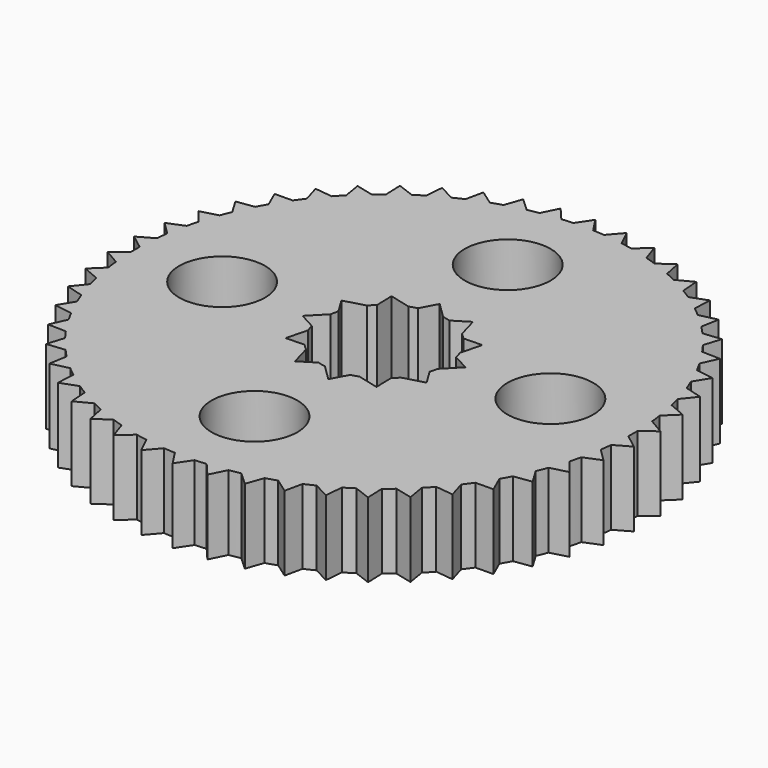
from build123d import *

# Parameters (mm, degrees)
F0_R     = 8.619156
F1_DEPTH = 7.5


with BuildPart() as f1:
    # F0 (on Top) → F1 (new body, symmetric)
    with BuildSketch(Plane.XY):
        with BuildLine():
            Line((0.045646, 52.980775), (-1.974219, 49.961009))
            ThreePointArc((-1.974219, 49.961009), (-3.117219, 49.902735), (-4.258587, 49.818314))
            Line((-4.258587, 49.818314), (-6.594966, 52.568727))
            Line((-6.594966, 52.568727), (-8.220427, 49.319617))
            ThreePointArc((-8.220427, 49.319617), (-9.34711, 49.118546), (-10.468897, 48.89174))
            Line((-10.468897, 48.89174), (-13.131571, 51.327639))
            Line((-13.131571, 51.327639), (-14.336993, 47.900424))
            ThreePointArc((-14.336993, 47.900424), (-15.429592, 47.559728), (-16.514106, 47.194113))
            Line((-16.514106, 47.194113), (-19.461084, 49.277083))
            Line((-19.461084, 49.277083), (-20.227457, 45.725813))
            ThreePointArc((-20.227457, 45.725813), (-21.268739, 45.250864), (-22.298878, 44.752207))
            Line((-22.298878, 44.752207), (-25.483683, 46.449397))
            Line((-25.483683, 46.449397), (-25.798921, 42.830079))
            ThreePointArc((-25.798921, 42.830079), (-26.772466, 42.228368), (-27.731984, 41.604532))
            Line((-27.731984, 41.604532), (-31.10439, 42.889178))
            Line((-31.10439, 42.889178), (-30.963521, 39.258889))
            ThreePointArc((-30.963521, 39.258889), (-31.853975, 38.539905), (-32.727739, 37.800729))
            Line((-32.727739, 37.800729), (-36.234562, 38.65257))
            Line((-36.234562, 38.65257), (-35.639808, 35.068562))
            ThreePointArc((-35.639808, 35.068562), (-36.433128, 34.243645), (-37.207359, 33.400785))
            Line((-37.207359, 33.400785), (-40.793293, 33.806388))
            Line((-40.793293, 33.806388), (-39.754034, 30.325184))
            ThreePointArc((-39.754034, 30.325184), (-40.437708, 29.407341), (-41.100196, 28.474091))
            Line((-41.100196, 28.474091), (-44.70869, 28.427059))
            Line((-44.70869, 28.427059), (-43.241315, 25.103559))
            ThreePointArc((-43.241315, 25.103559), (-43.804562, 24.107267), (-44.344859, 23.098344))
            Line((-44.344859, 23.098344), (-47.919004, 22.599419))
            Line((-47.919004, 22.599419), (-46.046654, 19.486036))
            ThreePointArc((-46.046654, 19.486036), (-46.480592, 18.427007), (-46.890176, 17.358322))
            Line((-46.890176, 17.358322), (-50.373606, 16.415372))
            Line((-50.373606, 16.415372), (-48.125811, 13.561207))
            ThreePointArc((-48.125811, 13.561207), (-48.423595, 12.456141), (-48.696008, 11.344549))
            Line((-48.696008, 11.344549), (-52.033787, 9.972445))
            Line((-52.033787, 9.972445), (-49.445994, 7.422509))
            ThreePointArc((-49.445994, 7.422509), (-49.602929, 6.288835), (-49.733875, 5.151866))
            Line((-49.733875, 5.151866), (-52.873364, 3.372246))
            Line((-52.873364, 3.372246), (-49.986385, 1.166754))
            ThreePointArc((-49.986385, 1.166754), (-49.999995, 0.02235), (-49.987408, -1.122065))
            Line((-49.987408, -1.122065), (-52.879096, -3.281135))
            Line((-52.879096, -3.281135), (-49.738461, -5.107401))
            ThreePointArc((-49.738461, -5.107401), (-49.608531, -6.244487), (-49.45261, -7.378301))
            Line((-49.45261, -7.378301), (-52.050893, -9.88277))
            Line((-52.050893, -9.88277), (-48.706131, -11.30101))
            ThreePointArc((-48.706131, -11.30101), (-48.434712, -12.412845), (-48.137915, -13.518177))
            Line((-48.137915, -13.518177), (-50.401817, -16.328548))
            Line((-50.401817, -16.328548), (-46.905676, -17.316395))
            ThreePointArc((-46.905676, -17.316395), (-46.497047, -18.385445), (-46.064057, -19.444862))
            Line((-46.064057, -19.444862), (-47.957874, -22.516815))
            Line((-47.957874, -22.516815), (-44.365491, -23.05869))
            ThreePointArc((-44.365491, -23.05869), (-43.826097, -24.068096), (-43.263741, -25.064891))
            Line((-43.263741, -25.064891), (-44.757606, -28.349979))
            Line((-44.757606, -28.349979), (-41.125636, -28.437336))
            ThreePointArc((-41.125636, -28.437336), (-40.463983, -29.371178), (-39.781129, -30.289631))
            Line((-39.781129, -30.289631), (-40.851485, -33.736046))
            Line((-40.851485, -33.736046), (-37.237205, -33.367508))
            ThreePointArc((-37.237205, -33.367508), (-36.463728, -34.211059), (-35.671146, -35.036686))
            Line((-35.671146, -35.036686), (-36.301111, -38.590076))
            Line((-36.301111, -38.590076), (-32.761521, -37.771454))
            ThreePointArc((-32.761521, -37.771454), (-31.888418, -38.511412), (-30.998607, -39.231191))
            Line((-30.998607, -39.231191), (-31.178247, -42.835518))
            Line((-31.178247, -42.835518), (-27.769168, -41.579723))
            ThreePointArc((-27.769168, -41.579723), (-26.810208, -42.204416), (-25.837202, -42.806997))
            Line((-25.837202, -42.806997), (-25.563683, -46.405417))
            Line((-25.563683, -46.405417), (-22.338878, -44.732254))
            ThreePointArc((-22.338878, -44.732254), (-21.309186, -45.231832), (-20.268328, -45.707711))
            Line((-20.268328, -45.707711), (-19.545965, -49.243476))
            Line((-19.545965, -49.243476), (-16.556292, -47.17933))
            ThreePointArc((-16.556292, -47.17933), (-15.472105, -47.545914), (-14.379811, -47.887587))
            Line((-14.379811, -47.887587), (-13.219995, -51.304935))
            Line((-13.219995, -51.304935), (-10.512602, -48.882361))
            ThreePointArc((-10.512602, -48.882361), (-9.391019, -49.11017), (-8.264516, -49.312248))
            Line((-8.264516, -49.312248), (-6.685538, -52.557285))
            Line((-6.685538, -52.557285), (-4.303123, -49.814487))
            ThreePointArc((-4.303123, -49.814487), (-3.161832, -49.899928), (-2.018884, -49.959224))
            Line((-2.018884, -49.959224), (-0.045646, -52.980775))
            Line((-0.045646, -52.980775), (1.974219, -49.961009))
            ThreePointArc((1.974219, -49.961009), (3.117219, -49.902735), (4.258587, -49.818314))
            Line((4.258587, -49.818314), (6.594966, -52.568727))
            Line((6.594966, -52.568727), (8.220427, -49.319617))
            ThreePointArc((8.220427, -49.319617), (9.34711, -49.118546), (10.468897, -48.89174))
            Line((10.468897, -48.89174), (13.131571, -51.327639))
            Line((13.131571, -51.327639), (14.336993, -47.900424))
            ThreePointArc((14.336993, -47.900424), (15.429592, -47.559728), (16.514106, -47.194113))
            Line((16.514106, -47.194113), (19.461084, -49.277083))
            Line((19.461084, -49.277083), (20.227457, -45.725813))
            ThreePointArc((20.227457, -45.725813), (21.268739, -45.250864), (22.298878, -44.752207))
            Line((22.298878, -44.752207), (25.483683, -46.449397))
            Line((25.483683, -46.449397), (25.798921, -42.830079))
            ThreePointArc((25.798921, -42.830079), (26.772466, -42.228368), (27.731984, -41.604532))
            Line((27.731984, -41.604532), (31.10439, -42.889178))
            Line((31.10439, -42.889178), (30.963521, -39.258889))
            ThreePointArc((30.963521, -39.258889), (31.853975, -38.539905), (32.727739, -37.800729))
            Line((32.727739, -37.800729), (36.234562, -38.65257))
            Line((36.234562, -38.65257), (35.639808, -35.068562))
            ThreePointArc((35.639808, -35.068562), (36.433128, -34.243645), (37.207359, -33.400785))
            Line((37.207359, -33.400785), (40.793293, -33.806388))
            Line((40.793293, -33.806388), (39.754034, -30.325184))
            ThreePointArc((39.754034, -30.325184), (40.437708, -29.407341), (41.100196, -28.474091))
            Line((41.100196, -28.474091), (44.70869, -28.427059))
            Line((44.70869, -28.427059), (43.241315, -25.103559))
            ThreePointArc((43.241315, -25.103559), (43.804562, -24.107267), (44.344859, -23.098344))
            Line((44.344859, -23.098344), (47.919004, -22.599419))
            Line((47.919004, -22.599419), (46.046654, -19.486036))
            ThreePointArc((46.046654, -19.486036), (46.480592, -18.427007), (46.890176, -17.358322))
            Line((46.890176, -17.358322), (50.373606, -16.415372))
            Line((50.373606, -16.415372), (48.125811, -13.561207))
            ThreePointArc((48.125811, -13.561207), (48.423595, -12.456141), (48.696008, -11.344549))
            Line((48.696008, -11.344549), (52.033787, -9.972445))
            Line((52.033787, -9.972445), (49.445994, -7.422509))
            ThreePointArc((49.445994, -7.422509), (49.602929, -6.288835), (49.733875, -5.151866))
            Line((49.733875, -5.151866), (52.873364, -3.372246))
            Line((52.873364, -3.372246), (49.986385, -1.166754))
            ThreePointArc((49.986385, -1.166754), (49.999995, -0.02235), (49.987408, 1.122065))
            Line((49.987408, 1.122065), (52.879096, 3.281135))
            Line((52.879096, 3.281135), (49.738461, 5.107401))
            ThreePointArc((49.738461, 5.107401), (49.608531, 6.244487), (49.45261, 7.378301))
            Line((49.45261, 7.378301), (52.050893, 9.88277))
            Line((52.050893, 9.88277), (48.706131, 11.30101))
            ThreePointArc((48.706131, 11.30101), (48.434712, 12.412845), (48.137915, 13.518177))
            Line((48.137915, 13.518177), (50.401817, 16.328548))
            Line((50.401817, 16.328548), (46.905676, 17.316395))
            ThreePointArc((46.905676, 17.316395), (46.497047, 18.385445), (46.064057, 19.444862))
            Line((46.064057, 19.444862), (47.957874, 22.516815))
            Line((47.957874, 22.516815), (44.365491, 23.05869))
            ThreePointArc((44.365491, 23.05869), (43.826097, 24.068096), (43.263741, 25.064891))
            Line((43.263741, 25.064891), (44.757606, 28.349979))
            Line((44.757606, 28.349979), (41.125636, 28.437336))
            ThreePointArc((41.125636, 28.437336), (40.463983, 29.371178), (39.781129, 30.289631))
            Line((39.781129, 30.289631), (40.851485, 33.736046))
            Line((40.851485, 33.736046), (37.237205, 33.367508))
            ThreePointArc((37.237205, 33.367508), (36.463728, 34.211059), (35.671146, 35.036686))
            Line((35.671146, 35.036686), (36.301111, 38.590076))
            Line((36.301111, 38.590076), (32.761521, 37.771454))
            ThreePointArc((32.761521, 37.771454), (31.888418, 38.511412), (30.998607, 39.231191))
            Line((30.998607, 39.231191), (31.178247, 42.835518))
            Line((31.178247, 42.835518), (27.769168, 41.579723))
            ThreePointArc((27.769168, 41.579723), (26.810208, 42.204416), (25.837202, 42.806997))
            Line((25.837202, 42.806997), (25.563683, 46.405417))
            Line((25.563683, 46.405417), (22.338878, 44.732254))
            ThreePointArc((22.338878, 44.732254), (21.309186, 45.231832), (20.268328, 45.707711))
            Line((20.268328, 45.707711), (19.545965, 49.243476))
            Line((19.545965, 49.243476), (16.556292, 47.17933))
            ThreePointArc((16.556292, 47.17933), (15.472105, 47.545914), (14.379811, 47.887587))
            Line((14.379811, 47.887587), (13.219995, 51.304935))
            Line((13.219995, 51.304935), (10.512602, 48.882361))
            ThreePointArc((10.512602, 48.882361), (9.391019, 49.11017), (8.264516, 49.312248))
            Line((8.264516, 49.312248), (6.685538, 52.557285))
            Line((6.685538, 52.557285), (4.303123, 49.814487))
            ThreePointArc((4.303123, 49.814487), (3.161832, 49.899928), (2.018884, 49.959224))
            Line((2.018884, 49.959224), (0.045646, 52.980775))
        make_face()
        with Locations((0, -32.5)):
            Circle(F0_R, mode=Mode.SUBTRACT)
        with Locations((-32.5, 0)):
            Circle(F0_R, mode=Mode.SUBTRACT)
        with BuildLine():
            ThreePointArc((-4.437431, 11.685855), (-3.688239, 11.943487), (-2.924233, 12.153142))
            Line((-2.924233, 12.153142), (-1.152958, 15.416854))
            Line((-1.152958, 15.416854), (2, 12.338963))
            ThreePointArc((2, 12.338963), (2.777635, 12.187483), (3.544111, 11.987046))
            Line((3.544111, 11.987046), (6.709936, 13.927866))
            Line((6.709936, 13.927866), (7.901532, 9.685855))
            ThreePointArc((7.901532, 9.685855), (8.499244, 9.165853), (9.062814, 8.609031))
            Line((9.062814, 8.609031), (12.774908, 8.706918))
            Line((12.774908, 8.706918), (11.685855, 4.437431))
            ThreePointArc((11.685855, 4.437431), (11.943487, 3.688239), (12.153142, 2.924233))
            Line((12.153142, 2.924233), (15.416854, 1.152958))
            Line((15.416854, 1.152958), (12.338963, -2))
            ThreePointArc((12.338963, -2), (12.187483, -2.777635), (11.987046, -3.544111))
            Line((11.987046, -3.544111), (13.927866, -6.709936))
            Line((13.927866, -6.709936), (9.685855, -7.901532))
            ThreePointArc((9.685855, -7.901532), (9.165853, -8.499244), (8.609031, -9.062814))
            Line((8.609031, -9.062814), (8.706918, -12.774908))
            Line((8.706918, -12.774908), (4.437431, -11.685855))
            ThreePointArc((4.437431, -11.685855), (3.688239, -11.943487), (2.924233, -12.153142))
            Line((2.924233, -12.153142), (1.152958, -15.416854))
            Line((1.152958, -15.416854), (-2, -12.338963))
            ThreePointArc((-2, -12.338963), (-2.777635, -12.187483), (-3.544111, -11.987046))
            Line((-3.544111, -11.987046), (-6.709936, -13.927866))
            Line((-6.709936, -13.927866), (-7.901532, -9.685855))
            ThreePointArc((-7.901532, -9.685855), (-8.499244, -9.165853), (-9.062814, -8.609031))
            Line((-9.062814, -8.609031), (-12.774908, -8.706918))
            Line((-12.774908, -8.706918), (-11.685855, -4.437431))
            ThreePointArc((-11.685855, -4.437431), (-11.943487, -3.688239), (-12.153142, -2.924233))
            Line((-12.153142, -2.924233), (-15.416854, -1.152958))
            Line((-15.416854, -1.152958), (-12.338963, 2))
            ThreePointArc((-12.338963, 2), (-12.187483, 2.777635), (-11.987046, 3.544111))
            Line((-11.987046, 3.544111), (-13.927866, 6.709936))
            Line((-13.927866, 6.709936), (-9.685855, 7.901532))
            ThreePointArc((-9.685855, 7.901532), (-9.165853, 8.499244), (-8.609031, 9.062814))
            Line((-8.609031, 9.062814), (-8.706918, 12.774908))
            Line((-8.706918, 12.774908), (-4.437431, 11.685855))
        make_face(mode=Mode.SUBTRACT)
        with Locations((-1.152958, 32.479543)):
            Circle(F0_R, mode=Mode.SUBTRACT)
        with Locations((32.479543, 1.152958)):
            Circle(F0_R, mode=Mode.SUBTRACT)
    extrude(amount=F1_DEPTH, both=True)


solid = f1.part
